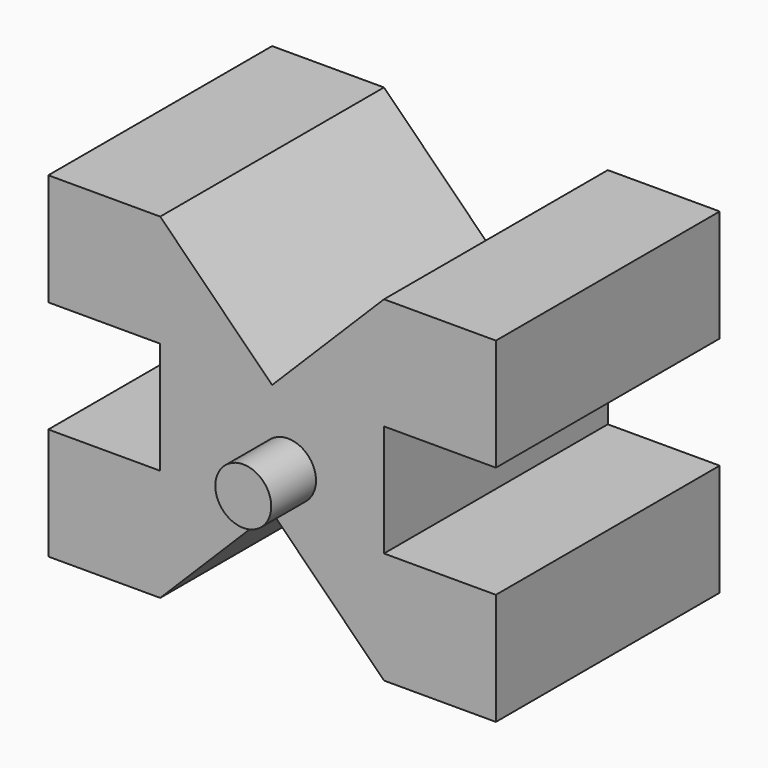
from build123d import *

# Parameters (mm, degrees)
F1_DEPTH = 25
F3_R     = 2.5
F4_DEPTH = 5


with BuildPart() as f1:
    # F0 (on Front) → F1 (new body)
    with BuildSketch(Plane.XZ):
        Polygon((-10, 5), (-10, 0), (-10, -5), (-20, -5), (-20, -15), (-10, -15), (0, -5), (10, -15), (20, -15), (20, -5), (10, -5), (10, 0), (10, 5), (20, 5), (20, 15), (10, 15), (0, 5), (-10, 15), (-20, 15), (-20, 5), align=None)
    extrude(amount=F1_DEPTH)

    # F3 (on face) → F4 (join)
    with BuildSketch(Plane.XZ.offset(25)):
        with Locations((1.424529, -1.24434)):
            Circle(F3_R)
    extrude(amount=F4_DEPTH)


solid = f1.part
